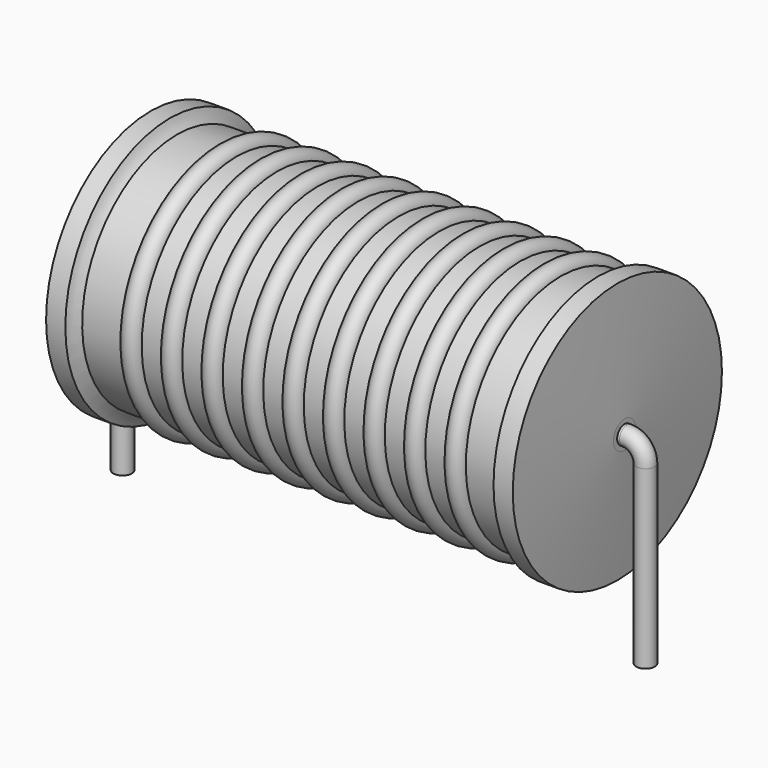
from build123d import *

# Parameters (mm, degrees)
SKETCH_R = 0.45


with BuildPart() as revolution:
    # Sketch002 → Revolution (revolve)
    with BuildSketch(Plane.XZ):
        with BuildLine():
            Line((1.36555, 12.8), (2.30035, 12.8))
            ThreePointArc((2.30035, 12.8), (2.444239, 12.489043), (2.6509, 12.21575))
            Line((2.6509, 12.21575), (22.7491, 12.21575))
            ThreePointArc((22.7491, 12.21575), (22.955761, 12.489043), (23.09965, 12.8))
            Line((23.09965, 12.8), (24.03445, 12.8))
            ThreePointArc((24.385, 7.125), (24.226403, 9.96353), (24.03445, 12.8))
            Line((24.385, 6.45), (24.385, 7.125))
            Line((1.015, 6.45), (24.385, 6.45))
            Line((1.015, 6.45), (1.015, 7.125))
            ThreePointArc((1.36555, 12.8), (1.173597, 9.96353), (1.015, 7.125))
        make_face()
    revolve(axis=Axis((1.015, 0, 6.45), (1, 0, 0)))


with BuildPart() as sweep_body:
    # Sweep: sweep along a path in Sketch001
    with BuildLine(Plane.XZ) as sweep_path:
        Line((0, -3), (0, 5.55))
        ThreePointArc((0, 5.55), (0.263601, 6.186393), (0.899992, 6.45))
        Line((0.899992, 6.45), (24.5, 6.45))
        ThreePointArc((24.5, 6.45), (25.136396, 6.186396), (25.4, 5.55))
        Line((25.4, 5.55), (25.4, -3))
    # Sketch → Sweep (sweep)
    with BuildSketch(Plane.XY.offset(-2)):
        Circle(SKETCH_R)
    sweep(path=sweep_path.line)


with BuildPart() as revolution001:
    # Sketch003 → Revolution001 (revolve)
    with BuildSketch(Plane.XZ):
        with BuildLine():
            ThreePointArc((5.5537, 12.12227), (5.0617, 12.61427), (4.5697, 12.12227))
            Line((3.5857, 12.12227), (4.5697, 12.12227))
            Line((3.5857, 12.12227), (3.5857, 10.85227))
            Line((3.5857, 10.85227), (22.2817, 10.85227))
            Line((22.2817, 10.85227), (22.2817, 12.12227))
            Line((21.2977, 12.12227), (22.2817, 12.12227))
            ThreePointArc((21.2977, 12.12227), (20.8057, 12.61427), (20.3137, 12.12227))
            Line((19.3297, 12.12227), (20.3137, 12.12227))
            ThreePointArc((19.3297, 12.12227), (18.8377, 12.61427), (18.3457, 12.12227))
            Line((17.3617, 12.12227), (18.3457, 12.12227))
            ThreePointArc((17.3617, 12.12227), (16.8697, 12.61427), (16.3777, 12.12227))
            Line((15.3937, 12.12227), (16.3777, 12.12227))
            ThreePointArc((15.3937, 12.12227), (14.9017, 12.61427), (14.4097, 12.12227))
            Line((13.4257, 12.12227), (14.4097, 12.12227))
            ThreePointArc((13.4257, 12.12227), (12.9337, 12.61427), (12.4417, 12.12227))
            Line((11.4577, 12.12227), (12.4417, 12.12227))
            ThreePointArc((11.4577, 12.12227), (10.9657, 12.61427), (10.4737, 12.12227))
            Line((9.4897, 12.12227), (10.4737, 12.12227))
            ThreePointArc((9.4897, 12.12227), (8.9977, 12.61427), (8.5057, 12.12227))
            Line((7.5217, 12.12227), (8.5057, 12.12227))
            ThreePointArc((7.5217, 12.12227), (7.0297, 12.61427), (6.5377, 12.12227))
            Line((5.5537, 12.12227), (6.5377, 12.12227))
        make_face()
    revolve(axis=Axis((1.59925, 0, 6.45), (1, 0, 0)))


solid = Compound([revolution.part, sweep_body.part, revolution001.part])
